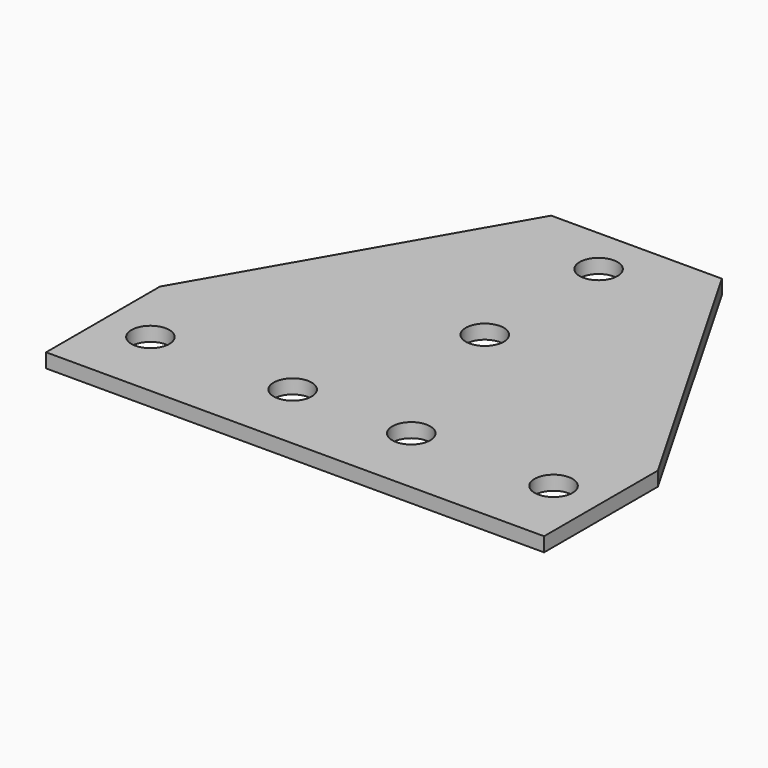
from build123d import *

# Parameters (mm, degrees)
F0_R     = 4
F1_DEPTH = 3


with BuildPart() as f1:
    # F0 (on Top) → F1 (new body)
    with BuildSketch(Plane.XY):
        Polygon((-52.5, -10), (-52.5, -40), (52.5, -40), (52.5, -10), (18, 50), (-18, 50), align=None)
        with Locations((-42.5, -25)):
            Circle(F0_R, mode=Mode.SUBTRACT)
        with Locations((-12.5, -25)):
            Circle(F0_R, mode=Mode.SUBTRACT)
        with Locations((12.5, -25)):
            Circle(F0_R, mode=Mode.SUBTRACT)
        with Locations((42.5, -25)):
            Circle(F0_R, mode=Mode.SUBTRACT)
        with Locations((0, 10)):
            Circle(F0_R, mode=Mode.SUBTRACT)
        with Locations((0, 40)):
            Circle(F0_R, mode=Mode.SUBTRACT)
    extrude(amount=F1_DEPTH)


solid = f1.part
